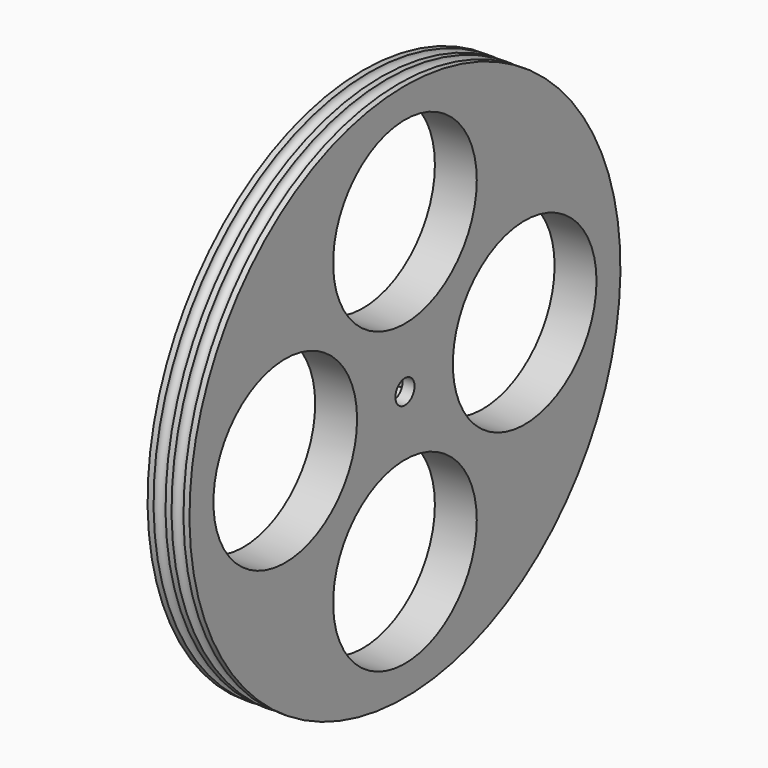
from build123d import *

# Parameters (mm, degrees)
F3_R     = 19.05
F4_DEPTH = 19.05
F6_DEPTH = 6.35
F7_R     = 2.54
F8_DEPTH = 8.891


with BuildPart() as f1:
    # F0 (on Front) → F1 (revolve)
    with BuildSketch(Plane.XZ):
        with BuildLine():
            Line((0, 57.15), (0, 0))
            Line((0, 0), (8.89, 0))
            Line((8.89, 0), (8.89, 57.15))
            Line((8.89, 57.15), (7.62, 57.15))
            ThreePointArc((7.62, 57.15), (6.35, 55.88), (5.08, 57.15))
            Line((5.08, 57.15), (3.81, 57.15))
            ThreePointArc((3.81, 57.15), (2.54, 55.88), (1.27, 57.15))
            Line((1.27, 57.15), (0, 57.15))
        make_face()
    revolve(axis=Axis((4.445, 0, 0), (1, 0, 0)))

    # F3 (on face) → F4 (cut)
    with BuildSketch(Plane.YZ.offset(8.89)):
        with Locations((-31.75, 0)):
            Circle(F3_R)
        with Locations((0, 31.75)):
            Circle(F3_R)
        with Locations((31.75, 0)):
            Circle(F3_R)
        with Locations((0, -31.75)):
            Circle(F3_R)
    extrude(amount=-F4_DEPTH, mode=Mode.SUBTRACT)

    # F5 (on Right) → F6 (cut)
    with BuildSketch(Plane.YZ):
        Polygon((-6.223, 3.592851), (-6.223, -3.592851), (0, -7.185701), (6.223, -3.592851), (6.223, 3.592851), (0, 7.185701), align=None)
    extrude(amount=F6_DEPTH, mode=Mode.SUBTRACT)

    # F7 (on face) → F8 (cut, through all)
    with BuildSketch(Plane.YZ.offset(8.89)):
        Circle(F7_R)
    extrude(amount=-F8_DEPTH, mode=Mode.SUBTRACT)


solid = f1.part
